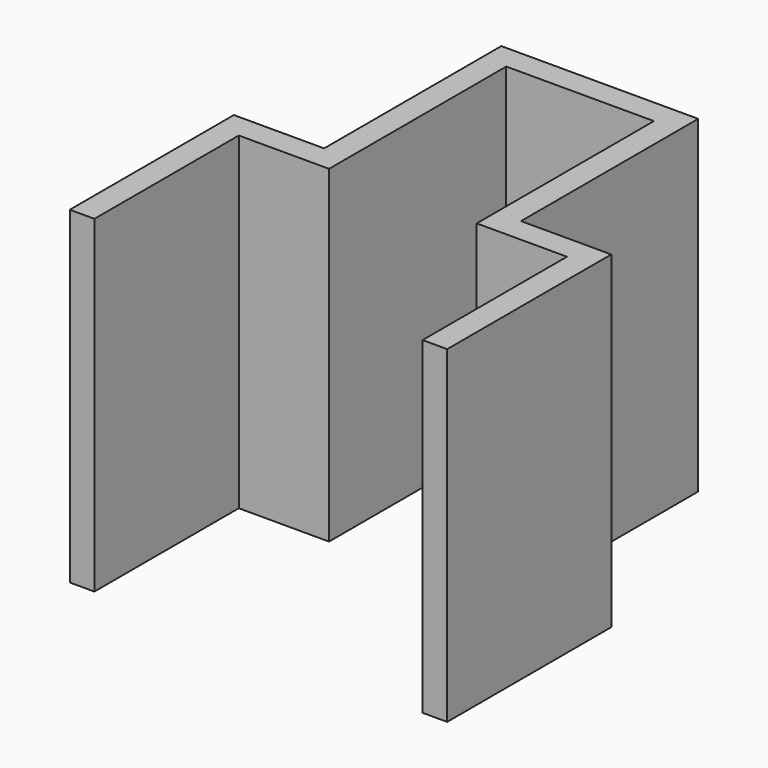
from build123d import *

# Parameters (mm, degrees)
F1_DEPTH = 40


with BuildPart() as f1:
    # F0 (on Top) → F1 (new body)
    with BuildSketch(Plane.XY):
        Polygon((-9, 14), (0, 14), (9, 14), (9, -13), (20, -13), (20, -35), (23, -35), (23, -10), (12, -10), (12, 17), (0, 17), (-12, 17), (-12, -10), (-23, -10), (-23, -35), (-20, -35), (-20, -13), (-9, -13), align=None)
    extrude(amount=F1_DEPTH)


solid = f1.part
